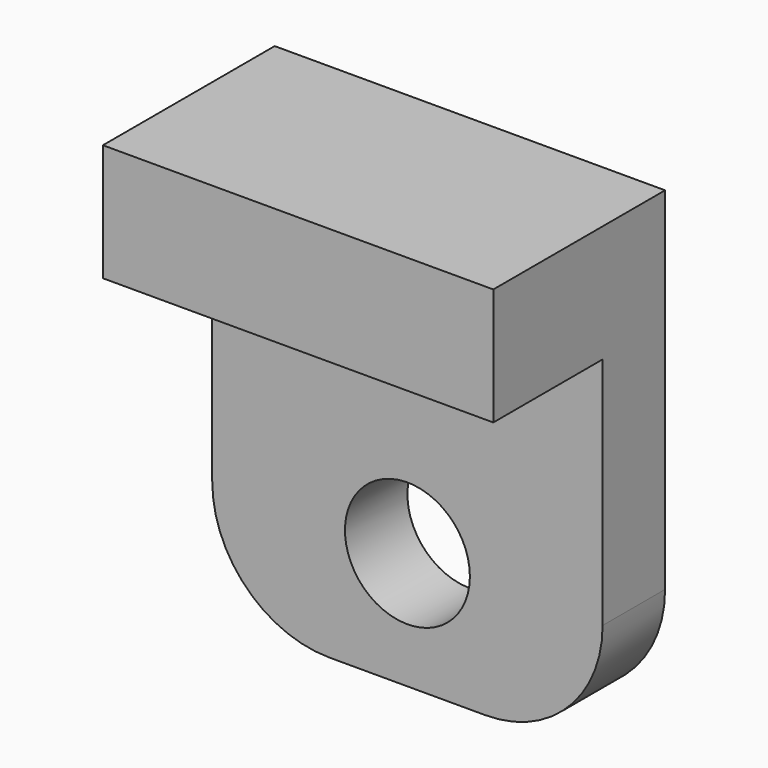
from build123d import *

# Parameters (mm, degrees)
BOX184_W          = 10
BOX184_H          = 3.5
BOX184_DEPTH      = 3
CYLINDER071_R     = 1.6
CYLINDER071_DEPTH = 2
BOX182_W          = 10
BOX182_H          = 2
BOX182_DEPTH      = 12
FILLET041_R       = 3


with BuildPart() as cube173:
    # Box184 → Box184 (new body)
    with BuildSketch(Plane(origin=(30, 29.5, -16), x_dir=(1, 0, 0), z_dir=(0, 0, 1))):
        with Locations((5, 1.75)):
            Rectangle(BOX184_W, BOX184_H)
    extrude(amount=BOX184_DEPTH)


with BuildPart() as cylinder152:
    # Cylinder071 → Cylinder071 (new body)
    with BuildSketch(Plane(origin=(35, 35, -22), x_dir=(1, 0, 0), z_dir=(0, -1, 0))):
        Circle(CYLINDER071_R)
    extrude(amount=CYLINDER071_DEPTH)


with BuildPart() as fusion057:
    # Box182 → Box182 (new body)
    with BuildSketch(Plane(origin=(30, 33, -25), x_dir=(1, 0, 0), z_dir=(0, 0, 1))):
        with Locations((5, 1)):
            Rectangle(BOX182_W, BOX182_H)
    extrude(amount=BOX182_DEPTH)

    # Cut096: cut Cylinder152
    add(cylinder152.part, mode=Mode.SUBTRACT)

    # Fillet041
    fillet041_edges = [fusion057.edges().sort_by_distance(p)[0] for p in [
        (30, 34, -25),
        (40, 34, -25),
    ]]
    fillet(fillet041_edges, radius=FILLET041_R)

    # Fusion057: union Cube173
    add(cube173.part)


solid = fusion057.part
